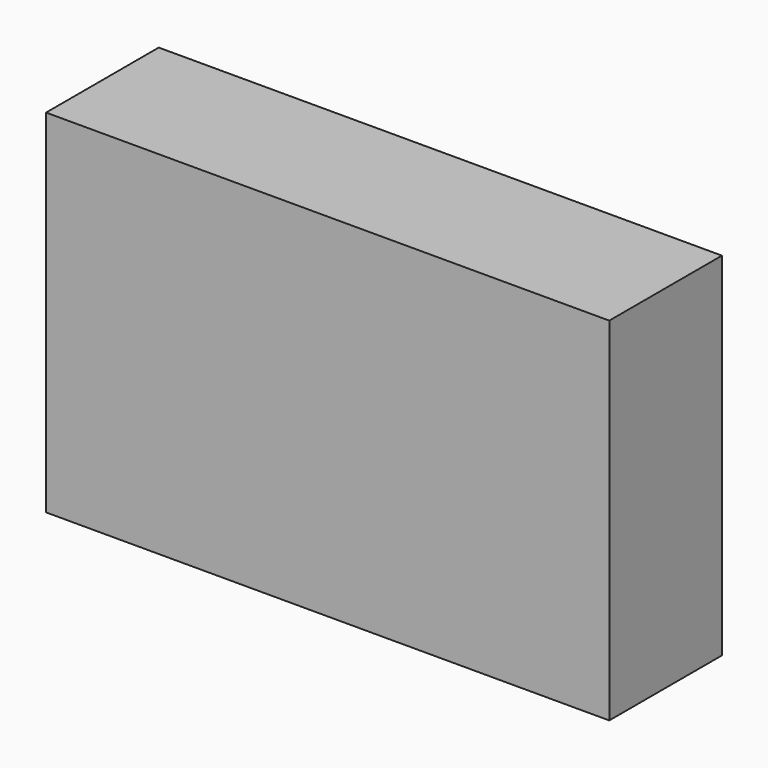
from build123d import *

# Parameters (mm, degrees)
F0_W     = 203.2
F0_H     = 127
F1_DEPTH = 25.4
F2_W     = 203.2
F2_H     = 127
F2_R     = 12.7
F3_DEPTH = 25.4


with BuildPart() as f1:
    # F0 (on Front) → F1 (new body)
    with BuildSketch(Plane.XZ):
        Rectangle(F0_W, F0_H)
    extrude(amount=F1_DEPTH)

    # F2 (on face) → F3 (join)
    with BuildSketch(Plane(origin=(0, 0, 0), x_dir=(-1, 0, 0), z_dir=(0, 1, 0))):
        Rectangle(F2_W, F2_H)
        Circle(F2_R, mode=Mode.SUBTRACT)
    extrude(amount=F3_DEPTH)


solid = f1.part
